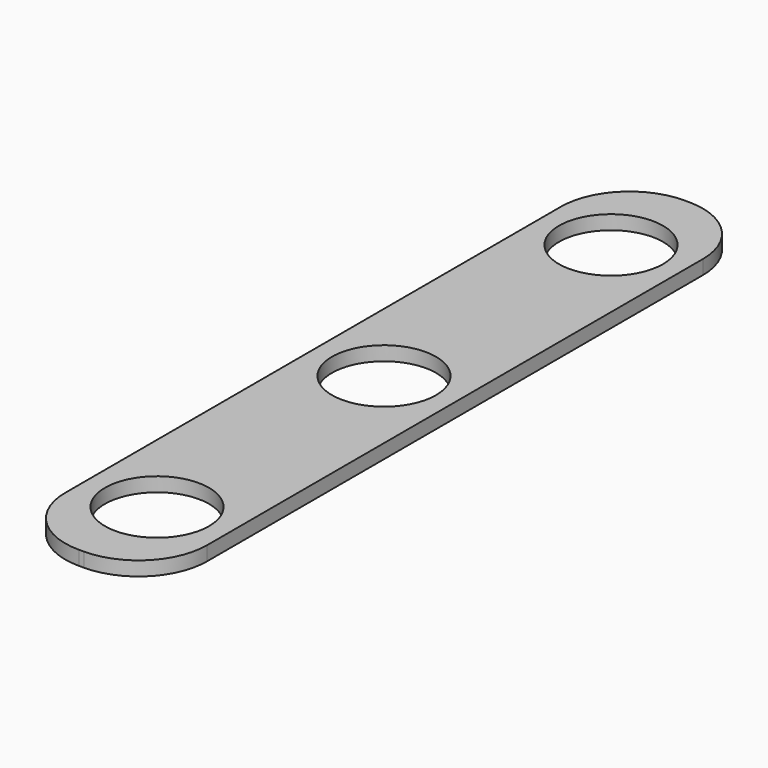
from build123d import *

# Parameters (mm, degrees)
F0_W     = 30
F0_H     = 160
F1_DEPTH = 3
F2_R     = 11
F3_DEPTH = 25
F4_R     = 11
F5_DEPTH = 25
F6_R     = 14.485281
F7_R     = 14.485281


with BuildPart() as f1:
    # F0 (on Top) → F1 (new body)
    with BuildSketch(Plane.XY):
        Rectangle(F0_W, F0_H)
    extrude(amount=F1_DEPTH)

    # F2 (on face) → F3 (cut)
    with BuildSketch(Plane.XY.offset(3)):
        Circle(F2_R)
    extrude(amount=-F3_DEPTH, mode=Mode.SUBTRACT)

    # F4 (on Top) → F5 (cut)
    with BuildSketch(Plane.XY):
        with Locations((0, 60)):
            Circle(F4_R)
        with Locations((0, -60)):
            Circle(F4_R)
    extrude(amount=F5_DEPTH, mode=Mode.SUBTRACT)

    # F6
    f6_edges = [f1.edges().sort_by_distance(p)[0] for p in [
        (-15, -80, 1.5),
        (15, -80, 1.5),
    ]]
    fillet(f6_edges, radius=F6_R)

    # F7
    f7_edges = [f1.edges().sort_by_distance(p)[0] for p in [
        (-15, 80, 1.5),
        (15, 80, 1.5),
    ]]
    fillet(f7_edges, radius=F7_R)


solid = f1.part
